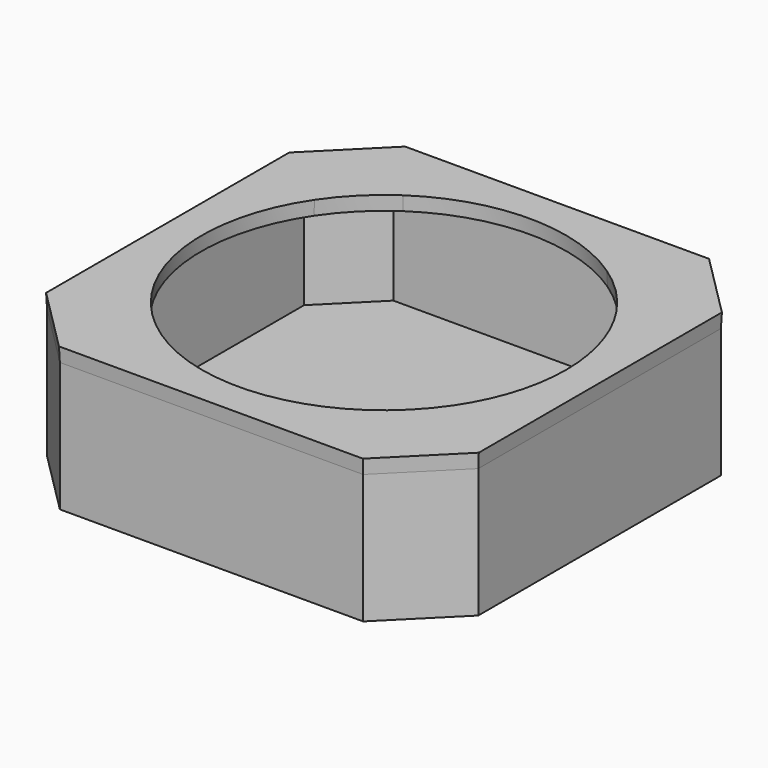
from build123d import *

# Parameters (mm, degrees)
F3_DEPTH = 2.54
F3_TAPER = -3
F0_W     = 2.54
F0_H     = 53.594
F0_W_2   = 53.594
F0_H_2   = 2.54
F4_DEPTH = 25.4
F0_H_3   = 8.763
F0_W_3   = 8.763
F2_W     = 53.594
F2_H     = 53.594
F2_W_2   = 4.2453631759
F2_H_2   = 20.1131701469
F6_DEPTH = 2.54


with BuildPart() as f3:
    # F5 (on offset) → F3 (new body)
    with BuildSketch(Plane.XY.offset(22.86)):
        Polygon((-26.797, -26.797), (-38.1, -26.797), (-26.797, -38.1), align=None)
        with BuildLine():
            ThreePointArc((-18.0581535106, -26.797), (-22.8492463466, -22.8492463466), (-26.797, -18.0581535106))
            Line((-26.797, -18.0581535106), (-26.797, -26.797))
            Line((-26.797, -26.797), (-18.0581535106, -26.797))
        make_face()
        Polygon((38.1, 26.797), (26.797, 38.1), (26.797, 26.797), align=None)
        with BuildLine():
            Line((26.797, 18.0581535106), (26.797, 26.797))
            Line((26.797, 26.797), (18.0581535106, 26.797))
            ThreePointArc((18.0581535106, 26.797), (22.8492463466, 22.8492463466), (26.797, 18.0581535106))
        make_face()
        with BuildLine():
            Line((-18.0581535106, 26.797), (-26.797, 26.797))
            Line((-26.797, 26.797), (-26.797, 18.0581535106))
            ThreePointArc((-26.797, 18.0581535106), (-22.8492463466, 22.8492463466), (-18.0581535106, 26.797))
        make_face()
        Polygon((26.797, -38.1), (38.1, -26.797), (26.797, -26.797), align=None)
        with BuildLine():
            Line((38.1, 26.797), (26.797, 26.797))
            Line((26.797, 26.797), (26.797, 18.0581535106))
            ThreePointArc((26.797, 18.0581535106), (30.9037757664, 9.4410148075), (32.3137140733, 0))
            ThreePointArc((32.3137140733, 0), (30.9037757664, -9.4410148075), (26.797, -18.0581535106))
            Line((26.797, -18.0581535106), (26.797, -26.797))
            Line((26.797, -26.797), (38.1, -26.797))
            Line((38.1, -26.797), (38.1, 26.797))
        make_face()
        with BuildLine():
            Line((26.797, -38.1), (26.797, -26.797))
            Line((26.797, -26.797), (18.0581535106, -26.797))
            ThreePointArc((18.0581535106, -26.797), (0, -32.3137140733), (-18.0581535106, -26.797))
            Line((-18.0581535106, -26.797), (-26.797, -26.797))
            Line((-26.797, -26.797), (-26.797, -38.1))
            Line((-26.797, -38.1), (26.797, -38.1))
        make_face()
        Polygon((-26.797, 26.797), (-26.797, 38.1), (-38.1, 26.797), align=None)
        with BuildLine():
            Line((26.797, 26.797), (26.797, 38.1))
            Line((26.797, 38.1), (-26.797, 38.1))
            Line((-26.797, 38.1), (-26.797, 26.797))
            Line((-26.797, 26.797), (-18.0581535106, 26.797))
            ThreePointArc((-18.0581535106, 26.797), (0, 32.3137140733), (18.0581535106, 26.797))
            Line((18.0581535106, 26.797), (26.797, 26.797))
        make_face()
        with BuildLine():
            Line((26.797, -26.797), (26.797, -18.0581535106))
            ThreePointArc((26.797, -18.0581535106), (22.8492463466, -22.8492463466), (18.0581535106, -26.797))
            Line((18.0581535106, -26.797), (26.797, -26.797))
        make_face()
        with BuildLine():
            Line((-26.797, 18.0581535106), (-26.797, 26.797))
            Line((-26.797, 26.797), (-38.1, 26.797))
            Line((-38.1, 26.797), (-38.1, -26.797))
            Line((-38.1, -26.797), (-26.797, -26.797))
            Line((-26.797, -26.797), (-26.797, -18.0581535106))
            ThreePointArc((-26.797, -18.0581535106), (-32.3137140733, 0), (-26.797, 18.0581535106))
        make_face()
    extrude(amount=F3_DEPTH, taper=F3_TAPER)

    # F0 (on Top) → F4 (join)
    with BuildSketch(Plane.XY):
        with Locations((36.83, 0)):
            Rectangle(F0_W, F0_H)
        Polygon((26.797, -38.1), (38.1, -26.797), (35.56, -26.797), (26.797, -35.56), align=None)
        with Locations((0, -36.83)):
            Rectangle(F0_W_2, F0_H_2)
        Polygon((-35.56, -26.797), (-38.1, -26.797), (-26.797, -38.1), (-26.797, -35.56), align=None)
        with Locations((-36.83, 0)):
            Rectangle(F0_W, F0_H)
        Polygon((-26.797, 35.56), (-26.797, 38.1), (-38.1, 26.797), (-35.56, 26.797), align=None)
        with Locations((0, 36.83)):
            Rectangle(F0_W_2, F0_H_2)
        Polygon((38.1, 26.797), (26.797, 38.1), (26.797, 35.56), (35.56, 26.797), align=None)
    extrude(amount=F4_DEPTH)

    # F0 (on Top) + F2 (on face) → F6 (join)
    with BuildSketch(Plane.XY):
        Polygon((35.56, 26.797), (26.797, 35.56), (26.797, 26.797), align=None)
        with Locations((0, 31.1785)):
            Rectangle(F0_W_2, F0_H_3)
        with Locations((31.1785, 0)):
            Rectangle(F0_W_3, F0_H)
        Polygon((-26.797, 26.797), (-26.797, 35.56), (-35.56, 26.797), align=None)
        with Locations((-31.1785, 0)):
            Rectangle(F0_W_3, F0_H)
        Polygon((-26.797, -35.56), (-26.797, -26.797), (-35.56, -26.797), align=None)
        with Locations((0, -31.1785)):
            Rectangle(F0_W_2, F0_H_3)
        Polygon((35.56, -26.797), (26.797, -26.797), (26.797, -35.56), align=None)
    with BuildSketch(Plane.XY):
        Rectangle(F2_W, F2_H)
        Rectangle(F2_W_2, F2_H_2, mode=Mode.SUBTRACT)
    extrude(amount=F6_DEPTH)


solid = f3.part
